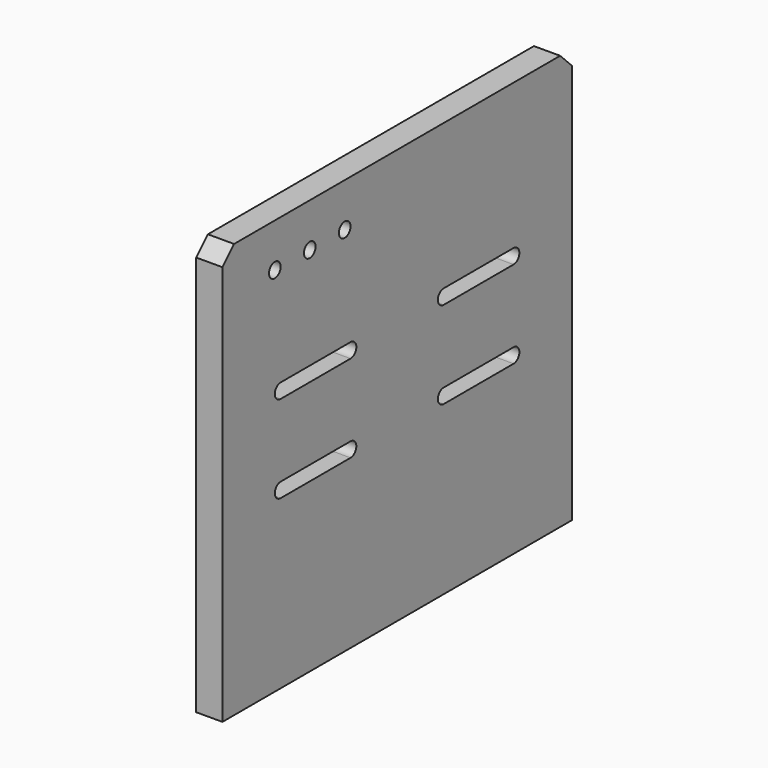
from build123d import *

# Parameters (mm, degrees)
F0_W     = 300
F0_H     = 285
F1_DEPTH = 18
F2_R     = 5
F3_DEPTH = 18.001
F4_SIZE  = 10


with BuildPart() as f1:
    # F0 (on Right) → F1 (new body)
    with BuildSketch(Plane.YZ):
        with Locations((150, 142.5)):
            Rectangle(F0_W, F0_H)
    extrude(amount=F1_DEPTH)

    # F2 (on face) → F3 (cut, through all)
    with BuildSketch(Plane.YZ.offset(18)):
        with Locations((45, 255)):
            Circle(F2_R)
        with Locations((75, 255)):
            Circle(F2_R)
        with Locations((105, 255)):
            Circle(F2_R)
        with BuildLine():
            Line((80, 125), (50, 125))
            ThreePointArc((50, 125), (45, 120), (50, 115))
            Line((50, 115), (80, 115))
            Line((80, 115), (110, 115))
            ThreePointArc((110, 115), (115, 120), (110, 125))
            Line((110, 125), (80, 125))
        make_face()
        with BuildLine():
            ThreePointArc((50, 185), (45, 180), (50, 175))
            Line((50, 175), (80, 175))
            Line((80, 175), (110, 175))
            ThreePointArc((110, 175), (115, 180), (110, 185))
            Line((110, 185), (80, 185))
            Line((80, 185), (50, 185))
        make_face()
        with BuildLine():
            ThreePointArc((190, 185), (185, 180), (190, 175))
            Line((190, 175), (220, 175))
            Line((220, 175), (250, 175))
            ThreePointArc((250, 175), (255, 180), (250, 185))
            Line((250, 185), (220, 185))
            Line((220, 185), (190, 185))
        make_face()
        with BuildLine():
            ThreePointArc((190, 125), (185, 120), (190, 115))
            Line((190, 115), (220, 115))
            Line((220, 115), (250, 115))
            ThreePointArc((250, 115), (255, 120), (250, 125))
            Line((250, 125), (220, 125))
            Line((220, 125), (190, 125))
        make_face()
    extrude(amount=-F3_DEPTH, mode=Mode.SUBTRACT)

    # F4
    f4_edges = [f1.edges().sort_by_distance(p)[0] for p in [
        (9, 0, 285),
        (9, 300, 285),
    ]]
    chamfer(f4_edges, length=F4_SIZE)


solid = f1.part
